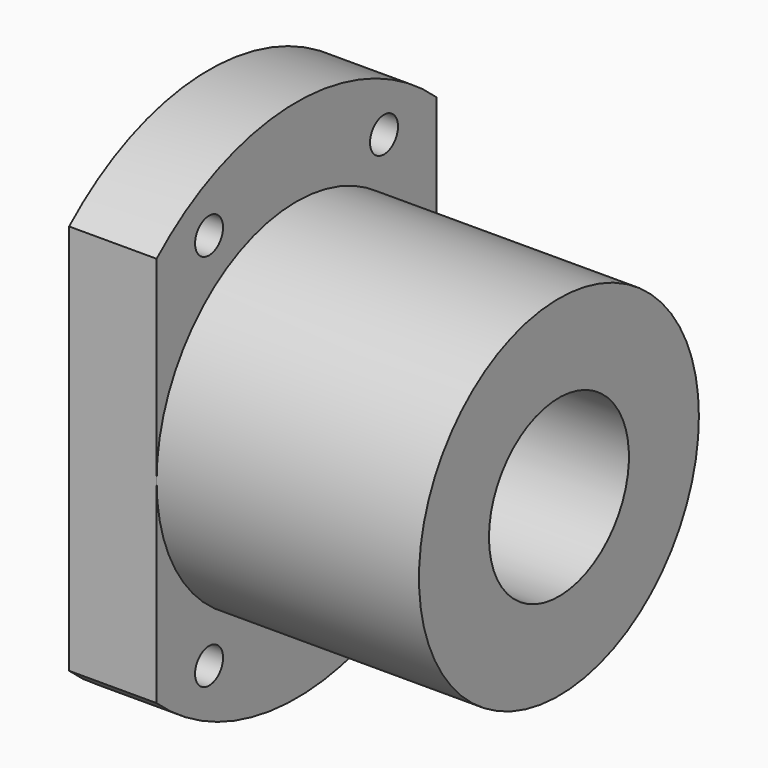
from build123d import *

# Parameters (mm, degrees)
F0_R     = 30
F1_DEPTH = 40
F2_R     = 30
F2_R_2   = 20
F3_DEPTH = 30
F5_DEPTH = 40.001
F6_R     = 2
F7_DEPTH = 40.001
F8_R     = 10
F9_DEPTH = 40.001


with BuildPart() as f1:
    # F0 (on Right) → F1 (new body)
    with BuildSketch(Plane.YZ):
        Circle(F0_R)
    extrude(amount=-F1_DEPTH)

    # F2 (on face) → F3 (cut)
    with BuildSketch(Plane.YZ):
        Circle(F2_R)
        Circle(F2_R_2, mode=Mode.SUBTRACT)
    extrude(amount=-F3_DEPTH, mode=Mode.SUBTRACT)

    # F4 (on face) → F5 (cut, through all)
    with BuildSketch(Plane(origin=(-40, 0, 0), x_dir=(0, -1, 0), z_dir=(-1, 0, 0))):
        with BuildLine():
            Line((-20, -22.36068), (-20, 22.36068))
            ThreePointArc((-20, 22.36068), (-30, 0), (-20, -22.36068))
        make_face()
        with BuildLine():
            ThreePointArc((30, 0), (27.386128, 12.247449), (20, 22.36068))
            Line((20, 22.36068), (20, -22.36068))
            ThreePointArc((20, -22.36068), (27.386128, -12.247449), (30, 0))
        make_face()
    extrude(amount=-F5_DEPTH, mode=Mode.SUBTRACT)

    # F6 (on face) → F7 (cut, through all)
    with BuildSketch(Plane(origin=(-40, 0, 0), x_dir=(0, -1, 0), z_dir=(-1, 0, 0))):
        with Locations((12.5, 21.650635)):
            Circle(F6_R)
        with Locations((-12.5, 21.650635)):
            Circle(F6_R)
        with Locations((12.5, -21.650635)):
            Circle(F6_R)
        with Locations((-12.5, -21.650635)):
            Circle(F6_R)
    extrude(amount=-F7_DEPTH, mode=Mode.SUBTRACT)

    # F8 (on face) → F9 (cut, through all)
    with BuildSketch(Plane(origin=(-40, 0, 0), x_dir=(0, -1, 0), z_dir=(-1, 0, 0))):
        Circle(F8_R)
    extrude(amount=-F9_DEPTH, mode=Mode.SUBTRACT)


solid = f1.part
